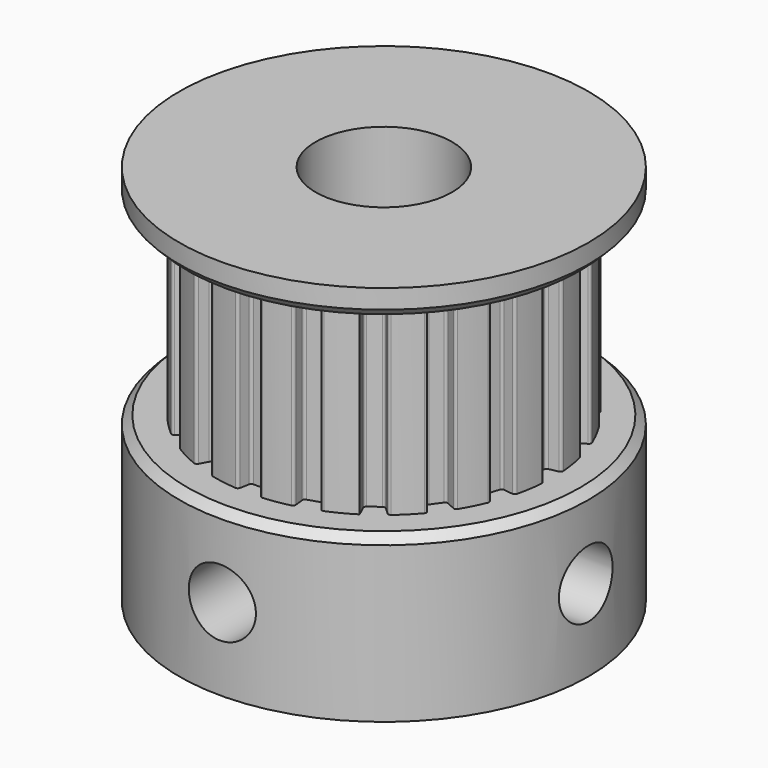
from build123d import *

# Parameters (mm, degrees)
SKETCH006_R  = 1.23
PAD005_DEPTH = 10
SKETCH005_R  = 1.23
PAD004_DEPTH = 10
PAD001_DEPTH = 7
ARRAY_COUNT  = 20
SKETCH_R     = 6.2
PAD_DEPTH    = 7
FILLET_R     = 0.1
SKETCH002_R  = 7.5
PAD002_DEPTH = 6
SKETCH003_R  = 7.5
PAD003_DEPTH = 1
CHAMFER_SIZE = 0.3
SKETCH004_R  = 2.5
POCKET_DEPTH = 14.001


with BuildPart() as pad005:
    # Sketch006 → Pad005 (new body)
    with BuildSketch(Plane.XZ):
        with Locations((0, -3)):
            Circle(SKETCH006_R)
    extrude(amount=PAD005_DEPTH)


with BuildPart() as pad004:
    # Sketch005 → Pad004 (new body)
    with BuildSketch(Plane.YZ):
        with Locations((0, -3)):
            Circle(SKETCH005_R)
    extrude(amount=PAD004_DEPTH)


with BuildPart() as array:
    # Sketch001 → Pad001 (new body)
    with BuildSketch(Plane.XY):
        with BuildLine():
            Line((5.69, 0.31), (7.471235, 0.656237))
            ThreePointArc((7.471235, -0.656237), (7.5, 0), (7.471235, 0.656237))
            Line((5.69, -0.31), (7.471235, -0.656237))
            Line((5.69, 0.31), (5.69, -0.31))
        make_face()
    extrude(amount=PAD001_DEPTH)

    # Array: Array ×20 about axis
    array_axis = Axis((0, 0, 0), (0, 0, 1))


with BuildPart() as array_1:
    add(array.part)
    for i in range(1, ARRAY_COUNT):
        add(array.part.rotate(array_axis, i * 360 / ARRAY_COUNT))


with BuildPart() as cut002:
    # Sketch → Pad (new body)
    with BuildSketch(Plane.XY):
        Circle(SKETCH_R)
    extrude(amount=PAD_DEPTH)

    # Cut: cut Array
    add(array_1.part, mode=Mode.SUBTRACT)

    # Fillet
    fillet_edges = [cut002.edges().sort_by_distance(p)[0] for p in [
        (2.053134, 5.315716, 3.5),
        (1.463479, 5.507307, 3.5),
        (1.525139, 6.009488, 3.5),
        (0.40654, 6.186657, 3.5),
        (-0.31, 5.69, 3.5),
        (-0.40654, 6.186657, 3.5),
        (0.31, 5.69, 3.5),
        (-1.525139, 6.009488, 3.5),
        (-1.463479, 5.507307, 3.5),
        (-2.053134, 5.315716, 3.5),
        (-2.298425, 5.758233, 3.5),
        (-3.307528, 5.244069, 3.5),
        (-3.595293, 4.421093, 3.5),
        (-3.965324, 4.766152, 3.5),
        (-4.766152, 3.965324, 3.5),
        (-3.093703, 4.78552, 3.5),
        (-4.78552, 3.093703, 3.5),
        (-5.244069, 3.307528, 3.5),
        (-5.758233, 2.298425, 3.5),
        (-4.421093, 3.595293, 3.5),
        (-5.315716, 2.053134, 3.5),
        (-5.507307, 1.463479, 3.5),
        (-6.009488, 1.525139, 3.5),
        (-6.186657, 0.40654, 3.5),
        (-5.69, -0.31, 3.5),
        (-6.186657, -0.40654, 3.5),
        (-6.009488, -1.525139, 3.5),
        (-5.315716, -2.053134, 3.5),
        (-5.758233, -2.298425, 3.5),
        (-5.244069, -3.307528, 3.5),
        (-5.69, 0.31, 3.5),
        (-5.507307, -1.463479, 3.5),
        (-4.421093, -3.595293, 3.5),
        (-4.766152, -3.965324, 3.5),
        (-3.965324, -4.766152, 3.5),
        (-4.78552, -3.093703, 3.5),
        (-3.595293, -4.421093, 3.5),
        (-3.093703, -4.78552, 3.5),
        (-3.307528, -5.244069, 3.5),
        (-2.298425, -5.758233, 3.5),
        (-1.463479, -5.507307, 3.5),
        (-1.525139, -6.009488, 3.5),
        (-2.053134, -5.315716, 3.5),
        (-0.40654, -6.186657, 3.5),
        (0.40654, -6.186657, 3.5),
        (0.31, -5.69, 3.5),
        (1.525139, -6.009488, 3.5),
        (2.053134, -5.315716, 3.5),
        (2.298425, -5.758233, 3.5),
        (-0.31, -5.69, 3.5),
        (1.463479, -5.507307, 3.5),
        (3.595293, -4.421093, 3.5),
        (4.78552, -3.093703, 3.5),
        (4.766152, -3.965324, 3.5),
        (3.965324, -4.766152, 3.5),
        (5.244069, -3.307528, 3.5),
        (5.758233, -2.298425, 3.5),
        (5.507307, -1.463479, 3.5),
        (3.093703, -4.78552, 3.5),
        (4.421093, -3.595293, 3.5),
        (5.315716, -2.053134, 3.5),
        (6.009488, -1.525139, 3.5),
        (6.186657, -0.40654, 3.5),
        (6.186657, 0.40654, 3.5),
        (5.69, 0.31, 3.5),
        (5.69, -0.31, 3.5),
        (6.009488, 1.525139, 3.5),
        (5.315716, 2.053134, 3.5),
        (5.758233, 2.298425, 3.5),
        (5.244069, 3.307528, 3.5),
        (5.758398, 1.494309, 7),
        (4.78552, 3.093703, 3.5),
        (4.766152, 3.965324, 3.5),
        (3.965324, 4.766152, 3.5),
        (3.595293, 4.421093, 3.5),
        (3.093703, 4.78552, 3.5),
        (3.307528, 5.244069, 3.5),
        (2.298425, 5.758233, 3.5),
        (4.421093, 3.595293, 3.5),
    ]]
    fillet(fillet_edges, radius=FILLET_R)

    # Sketch002 → Pad002 (new body)
    with BuildSketch(Plane(origin=(0, 0, 0), x_dir=(1, 0, 0), z_dir=(0, 0, -1))):
        Circle(SKETCH002_R)
    extrude(amount=PAD002_DEPTH)

    # Sketch003 → Pad003 (new body)
    with BuildSketch(Plane.XY.offset(7)):
        Circle(SKETCH003_R)
    extrude(amount=PAD003_DEPTH)

    # Chamfer
    chamfer_edges = [cut002.edges().sort_by_distance(p)[0] for p in [
        (-7.5, 0, 0),
        (-7.5, 0, 7),
    ]]
    chamfer(chamfer_edges, length=CHAMFER_SIZE)

    # Sketch004 → Pocket (cut, through all)
    with BuildSketch(Plane.XY.offset(8)):
        Circle(SKETCH004_R)
    extrude(amount=-POCKET_DEPTH, mode=Mode.SUBTRACT)

    # Cut001: cut Pad004
    add(pad004.part, mode=Mode.SUBTRACT)

    # Cut002: cut Pad005
    add(pad005.part, mode=Mode.SUBTRACT)


solid = cut002.part
